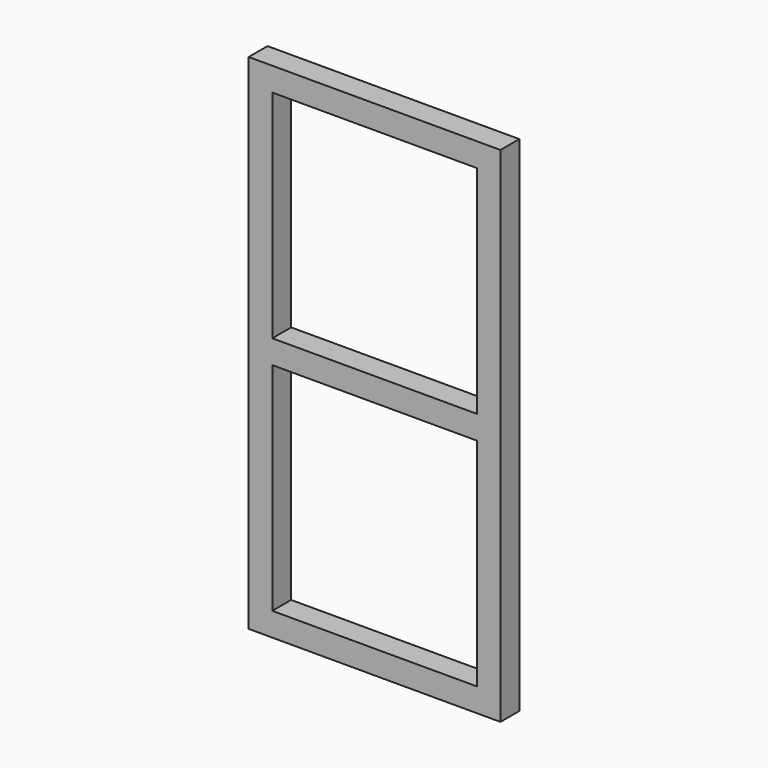
from build123d import *

# Parameters (mm, degrees)
F0_W     = 406.4
F0_H     = 812.8
F0_W_2   = 330.2
F0_H_2   = 38.1
F1_DEPTH = 38.1


with BuildPart() as f1:
    # F0 (on Front) → F1 (new body)
    with BuildSketch(Plane.XZ):
        Rectangle(F0_W, F0_H)
        Polygon((165.1, -19.05), (165.1, -368.3), (-165.1, -368.3), (-165.1, -19.05), (-165.1, 19.05), (-165.1, 368.3), (165.1, 368.3), (165.1, 19.05), align=None, mode=Mode.SUBTRACT)
        Rectangle(F0_W_2, F0_H_2)
    extrude(amount=F1_DEPTH)


solid = f1.part
